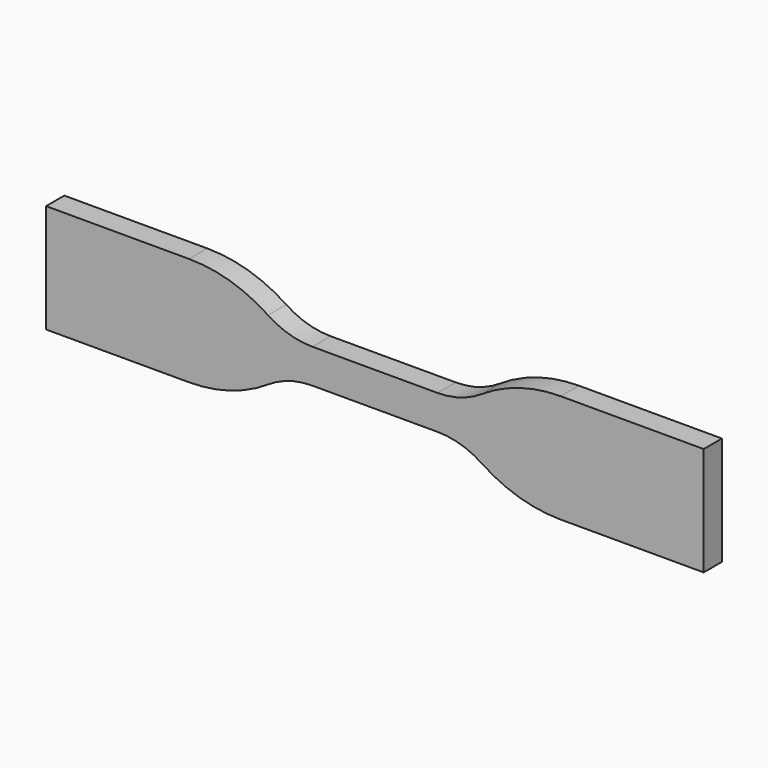
from build123d import *

# Parameters (mm, degrees)
F1_DEPTH = 1.9939


with BuildPart() as f1:
    # F0 (on Front) → F1 (new body, symmetric)
    with BuildSketch(Plane.XZ):
        with BuildLine():
            Line((10.940939, 2.9972), (0, 2.9972))
            Line((0, 2.9972), (-10.940939, 2.9972))
            ThreePointArc((-10.940939, 2.9972), (-14.982378, 3.593421), (-18.679478, 5.331286))
            ThreePointArc((-18.679478, 5.331286), (-25.281919, 8.434842), (-32.4993, 9.4996))
            Line((-32.4993, 9.4996), (-57.5056, 9.4996))
            Line((-57.5056, 9.4996), (-57.5056, -9.4996))
            Line((-57.5056, -9.4996), (-32.4993, -9.4996))
            ThreePointArc((-32.4993, -9.4996), (-25.281919, -8.434842), (-18.679478, -5.331286))
            ThreePointArc((-18.679478, -5.331286), (-14.982378, -3.593421), (-10.940939, -2.9972))
            Line((-10.940939, -2.9972), (0, -2.9972))
            Line((0, -2.9972), (10.940939, -2.9972))
            ThreePointArc((10.940939, -2.9972), (14.982378, -3.593421), (18.679478, -5.331286))
            ThreePointArc((18.679478, -5.331286), (25.281919, -8.434842), (32.4993, -9.4996))
            Line((32.4993, -9.4996), (57.5056, -9.4996))
            Line((57.5056, -9.4996), (57.5056, 9.4996))
            Line((57.5056, 9.4996), (32.4993, 9.4996))
            ThreePointArc((32.4993, 9.4996), (25.281919, 8.434842), (18.679478, 5.331286))
            ThreePointArc((18.679478, 5.331286), (14.982378, 3.593421), (10.940939, 2.9972))
        make_face()
    extrude(amount=F1_DEPTH, both=True)


solid = f1.part
